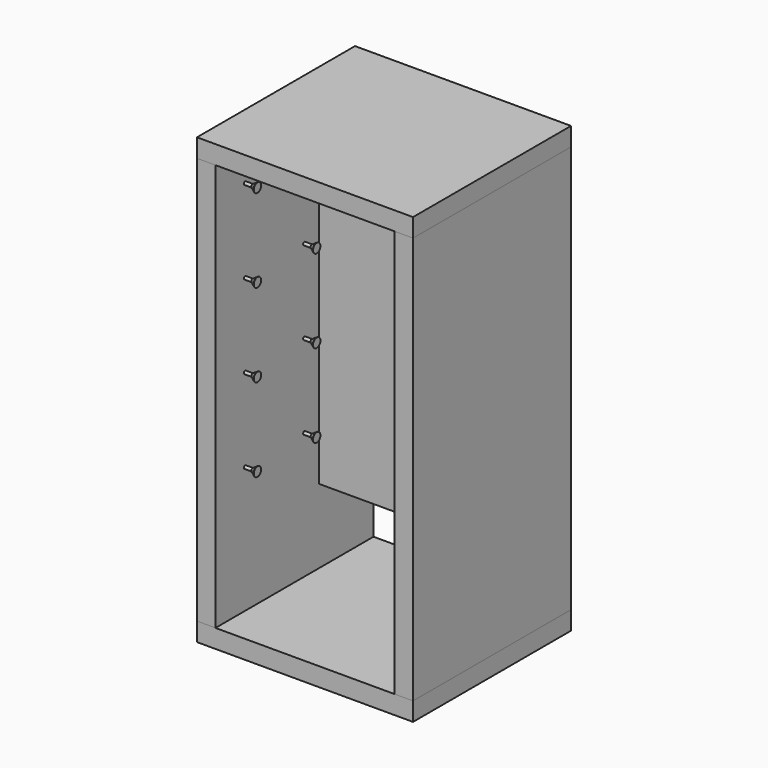
from build123d import *

# Parameters (mm, degrees)
F0_W       = 222.25
F0_H       = 203.2
F1_DEPTH   = 19.05
F2_W       = 19.05
F2_H       = 203.2
F3_DEPTH   = 419.1
F4_W       = 222.25
F4_H       = 203.2
F5_DEPTH   = 19.05
F6_W       = 184.15
F6_H       = 19.05
F7_DEPTH   = 342.9
F8_R       = 1.5875
F9_DEPTH   = 7.62
F11_START  = 4.826
F10_R      = 4.7625
F11_DEPTH  = 0.254
F11_FACE_R = 4.7625
F9_FACE_R  = 1.5875


with BuildPart() as f1:
    # F0 (on Top) → F1 (new body)
    with BuildSketch(Plane.XY):
        Rectangle(F0_W, F0_H)
    extrude(amount=F1_DEPTH)


with BuildPart() as f3:
    # F2 (on face) → F3 (new body)
    with BuildSketch(Plane.XY.offset(19.05)):
        with Locations((-101.6, 0)):
            Rectangle(F2_W, F2_H)
    extrude(amount=F3_DEPTH)


with BuildPart() as f3b:
    # F2 (on face) → F3, piece 2 (new body)
    with BuildSketch(Plane.XY.offset(19.05)):
        with Locations((101.6, 0)):
            Rectangle(F2_W, F2_H)
    extrude(amount=F3_DEPTH)

    # F8 (on face) → F9 (join)
    with BuildSketch(Plane(origin=(92.075, 0, 0), x_dir=(0, -1, 0), z_dir=(-1, 0, 0))):
        with Locations((-12.7, 406.4)):
            Circle(F8_R)
        with Locations((63.5, 406.4)):
            Circle(F8_R)
        with Locations((-12.7, 320.675)):
            Circle(F8_R)
        with Locations((63.5, 320.675)):
            Circle(F8_R)
        with Locations((-12.7, 234.95)):
            Circle(F8_R)
        with Locations((63.5, 234.95)):
            Circle(F8_R)
        with Locations((-12.7, 149.225)):
            Circle(F8_R)
        with Locations((63.5, 149.225)):
            Circle(F8_R)
    extrude(amount=F9_DEPTH)



with BuildPart() as f5:
    # F4 (on face) → F5 (new body)
    with BuildSketch(Plane.XY.offset(438.15)):
        Rectangle(F4_W, F4_H)
    extrude(amount=F5_DEPTH)


with BuildPart() as f7:
    # F6 (on face) → F7 (new body)
    with BuildSketch(Plane(origin=(0, 0, 438.15), x_dir=(1, 0, 0), z_dir=(0, 0, -1))):
        with Locations((0, -41.275)):
            Rectangle(F6_W, F6_H)
    extrude(amount=F7_DEPTH)


with BuildPart() as f11:
    # F10 (on face) → F11 (new body)
    with BuildSketch(Plane(origin=(84.455, 0, 0), x_dir=(0, -1, 0), z_dir=(-1, 0, 0)).offset(F11_START)):
        with Locations((-12.7, 406.4)):
            Circle(F10_R)
    extrude(amount=F11_DEPTH)


with BuildPart() as f11b:
    # F10 (on face) → F11, piece 2 (new body)
    with BuildSketch(Plane(origin=(84.455, 0, 0), x_dir=(0, -1, 0), z_dir=(-1, 0, 0)).offset(F11_START)):
        with Locations((63.5, 406.4)):
            Circle(F10_R)
    extrude(amount=F11_DEPTH)


with BuildPart() as f11c:
    # F10 (on face) → F11, piece 3 (new body)
    with BuildSketch(Plane(origin=(84.455, 0, 0), x_dir=(0, -1, 0), z_dir=(-1, 0, 0)).offset(F11_START)):
        with Locations((63.5, 320.675)):
            Circle(F10_R)
    extrude(amount=F11_DEPTH)


with BuildPart() as f11d:
    # F10 (on face) → F11, piece 4 (new body)
    with BuildSketch(Plane(origin=(84.455, 0, 0), x_dir=(0, -1, 0), z_dir=(-1, 0, 0)).offset(F11_START)):
        with Locations((-12.7, 320.675)):
            Circle(F10_R)
    extrude(amount=F11_DEPTH)


with BuildPart() as f11e:
    # F10 (on face) → F11, piece 5 (new body)
    with BuildSketch(Plane(origin=(84.455, 0, 0), x_dir=(0, -1, 0), z_dir=(-1, 0, 0)).offset(F11_START)):
        with Locations((-12.7, 234.95)):
            Circle(F10_R)
    extrude(amount=F11_DEPTH)


with BuildPart() as f11f:
    # F10 (on face) → F11, piece 6 (new body)
    with BuildSketch(Plane(origin=(84.455, 0, 0), x_dir=(0, -1, 0), z_dir=(-1, 0, 0)).offset(F11_START)):
        with Locations((63.5, 234.95)):
            Circle(F10_R)
    extrude(amount=F11_DEPTH)


with BuildPart() as f11g:
    # F10 (on face) → F11, piece 7 (new body)
    with BuildSketch(Plane(origin=(84.455, 0, 0), x_dir=(0, -1, 0), z_dir=(-1, 0, 0)).offset(F11_START)):
        with Locations((-12.7, 149.225)):
            Circle(F10_R)
    extrude(amount=F11_DEPTH)


with BuildPart() as f11h:
    # F10 (on face) → F11, piece 8 (new body)
    with BuildSketch(Plane(origin=(84.455, 0, 0), x_dir=(0, -1, 0), z_dir=(-1, 0, 0)).offset(F11_START)):
        with Locations((63.5, 149.225)):
            Circle(F10_R)
    extrude(amount=F11_DEPTH)


with BuildPart() as f3b_1:
    add(f3b.part)

    add(f11b.part)  # F12 merges F11b
    # F11_face (on face) → F12 section 0
    with BuildSketch(Plane(origin=(79.629, -63.5, 406.4), x_dir=(0, -1, 0), z_dir=(1, 0, 0))):
        Circle(F11_FACE_R)
    # F9_face (on face) → F12 section 1
    with BuildSketch(Plane(origin=(84.455, 12.7, 406.4), x_dir=(0, -1, 0), z_dir=(-1, 0, 0))):
        with Locations((76.2, 0)):
            Circle(F9_FACE_R)
    loft()


    add(f11.part)  # F13 merges F11
    # F11_face (on face) → F13 section 0
    with BuildSketch(Plane(origin=(79.629, -63.5, 406.4), x_dir=(0, -1, 0), z_dir=(1, 0, 0))):
        with Locations((-76.2, 0)):
            Circle(F11_FACE_R)
    # F9_face (on face) → F13 section 1
    with BuildSketch(Plane(origin=(84.455, 12.7, 406.4), x_dir=(0, -1, 0), z_dir=(-1, 0, 0))):
        Circle(F9_FACE_R)
    loft()


    add(f11c.part)  # F14 merges F11c
    # F11_face (on face) → F14 section 0
    with BuildSketch(Plane(origin=(79.629, -63.5, 406.4), x_dir=(0, -1, 0), z_dir=(1, 0, 0))):
        with Locations((0, 85.725)):
            Circle(F11_FACE_R)
    # F9_face (on face) → F14 section 1
    with BuildSketch(Plane(origin=(84.455, 12.7, 406.4), x_dir=(0, -1, 0), z_dir=(-1, 0, 0))):
        with Locations((76.2, -85.725)):
            Circle(F9_FACE_R)
    loft()


    add(f11d.part)  # F15 merges F11d
    # F9_face (on face) → F15 section 0
    with BuildSketch(Plane(origin=(84.455, 12.7, 406.4), x_dir=(0, -1, 0), z_dir=(-1, 0, 0))):
        with Locations((0, -85.725)):
            Circle(F9_FACE_R)
    # F11_face (on face) → F15 section 1
    with BuildSketch(Plane(origin=(79.629, -63.5, 406.4), x_dir=(0, -1, 0), z_dir=(1, 0, 0))):
        with Locations((-76.2, 85.725)):
            Circle(F11_FACE_R)
    loft()


    add(f11f.part)  # F16 merges F11f
    # F9_face (on face) → F16 section 0
    with BuildSketch(Plane(origin=(84.455, 12.7, 406.4), x_dir=(0, -1, 0), z_dir=(-1, 0, 0))):
        with Locations((76.2, -171.45)):
            Circle(F9_FACE_R)
    # F11_face (on face) → F16 section 1
    with BuildSketch(Plane(origin=(79.629, -63.5, 406.4), x_dir=(0, -1, 0), z_dir=(1, 0, 0))):
        with Locations((0, 171.45)):
            Circle(F11_FACE_R)
    loft()


    add(f11e.part)  # F17 merges F11e
    # F11_face (on face) → F17 section 0
    with BuildSketch(Plane(origin=(79.629, -63.5, 406.4), x_dir=(0, -1, 0), z_dir=(1, 0, 0))):
        with Locations((-76.2, 171.45)):
            Circle(F11_FACE_R)
    # F9_face (on face) → F17 section 1
    with BuildSketch(Plane(origin=(84.455, 12.7, 406.4), x_dir=(0, -1, 0), z_dir=(-1, 0, 0))):
        with Locations((0, -171.45)):
            Circle(F9_FACE_R)
    loft()


    add(f11g.part)  # F18 merges F11g
    # F9_face (on face) → F18 section 0
    with BuildSketch(Plane(origin=(84.455, 12.7, 406.4), x_dir=(0, -1, 0), z_dir=(-1, 0, 0))):
        with Locations((0, -257.175)):
            Circle(F9_FACE_R)
    # F11_face (on face) → F18 section 1
    with BuildSketch(Plane(origin=(79.629, -63.5, 406.4), x_dir=(0, -1, 0), z_dir=(1, 0, 0))):
        with Locations((-76.2, 257.175)):
            Circle(F11_FACE_R)
    loft()


    add(f11h.part)  # F19 merges F11h
    # F9_face (on face) → F19 section 0
    with BuildSketch(Plane(origin=(84.455, 12.7, 406.4), x_dir=(0, -1, 0), z_dir=(-1, 0, 0))):
        with Locations((76.2, -257.175)):
            Circle(F9_FACE_R)
    # F11_face (on face) → F19 section 1
    with BuildSketch(Plane(origin=(79.629, -63.5, 406.4), x_dir=(0, -1, 0), z_dir=(1, 0, 0))):
        with Locations((0, 257.175)):
            Circle(F11_FACE_R)
    loft()


with BuildPart() as f20_1:
    # F20: instance of F3b
    add(f3b_1.part.mirror(Plane.YZ))


solid = Compound([f1.part, f5.part, f7.part, f3b_1.part, f20_1.part])
